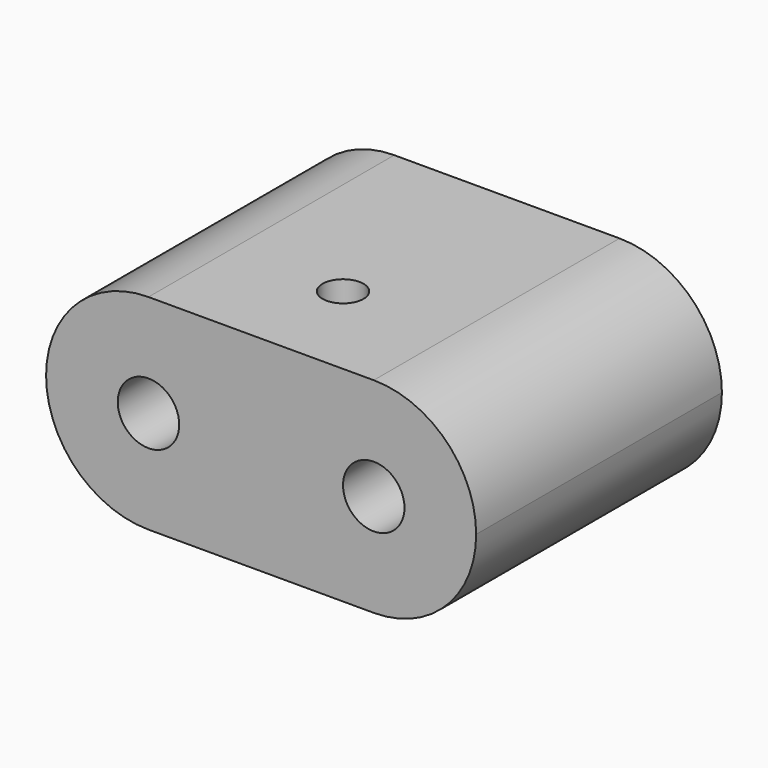
from build123d import *

# Parameters (mm, degrees)
F0_R     = 1.5
F1_DEPTH = 15
F2_R     = 1
F3_DEPTH = 10


with BuildPart() as f1:
    # F0 (on Front) → F1 (new body)
    with BuildSketch(Plane.XZ):
        with BuildLine():
            ThreePointArc((-0.5, -5), (-1.9644660941, -1.4644660941), (-5.5, 0))
            ThreePointArc((-5.5, 0), (-9.0355339059, -1.4644660941), (-10.5, -5))
            ThreePointArc((-10.5, -5), (-9.0355339059, -8.5355339059), (-5.5, -10))
            ThreePointArc((-5.5, -10), (-1.9644660941, -8.5355339059), (-0.5, -5))
        make_face()
        with Locations((-5.5, -5)):
            Circle(F0_R, mode=Mode.SUBTRACT)
        with BuildLine():
            Line((5.5, 0), (-5.5, 0))
            ThreePointArc((-5.5, 0), (-1.9644660941, -1.4644660941), (-0.5, -5))
            ThreePointArc((-0.5, -5), (-1.9644660941, -8.5355339059), (-5.5, -10))
            Line((-5.5, -10), (5.5, -10))
            ThreePointArc((5.5, -10), (0.5, -5), (5.5, 0))
        make_face()
        with BuildLine():
            ThreePointArc((10.5, -5), (9.0355339059, -1.4644660941), (5.5, 0))
            ThreePointArc((5.5, 0), (0.5, -5), (5.5, -10))
            ThreePointArc((5.5, -10), (9.0355339059, -8.5355339059), (10.5, -5))
        make_face()
        with Locations((5.5, -5)):
            Circle(F0_R, mode=Mode.SUBTRACT)
    extrude(amount=F1_DEPTH)

    # F2 (on Top) → F3 (cut)
    with BuildSketch(Plane.XY):
        with Locations((0, -10)):
            Circle(F2_R)
    extrude(amount=-F3_DEPTH, mode=Mode.SUBTRACT)


solid = f1.part
